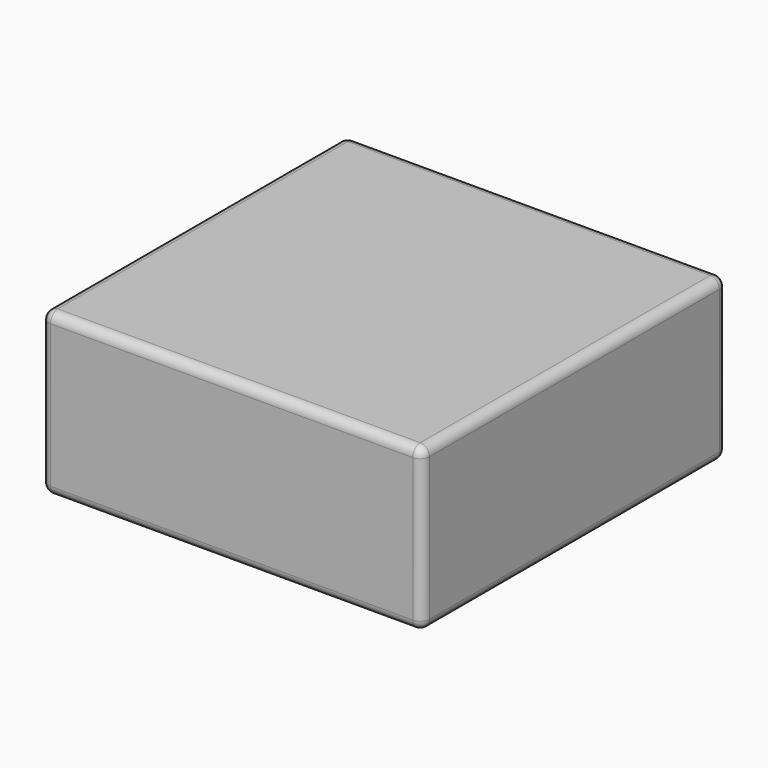
from build123d import *

# Parameters (mm, degrees)
F1_DEPTH = 87
F2_R     = 5


with BuildPart() as f1:
    # F0 (on Top) → F1 (new body)
    with BuildSketch(Plane.XY):
        Polygon((-205, 0), (0, 0), (0, 23.485435), (0, 205), (-205, 205), align=None)
    extrude(amount=F1_DEPTH)

    # F2
    f2_edges = [f1.edges().sort_by_distance(p)[0] for p in [
        (-205, 0, 43.5),
        (0, 0, 43.5),
        (-102.5, 0, 0),
        (-102.5, 0, 87),
        (0, 102.5, 87),
        (-102.5, 205, 87),
        (-205, 102.5, 87),
        (0, 205, 43.5),
        (0, 102.5, 0),
        (-205, 205, 43.5),
        (-205, 102.5, 0),
        (-102.5, 205, 0),
    ]]
    fillet(f2_edges, radius=F2_R)


solid = f1.part
